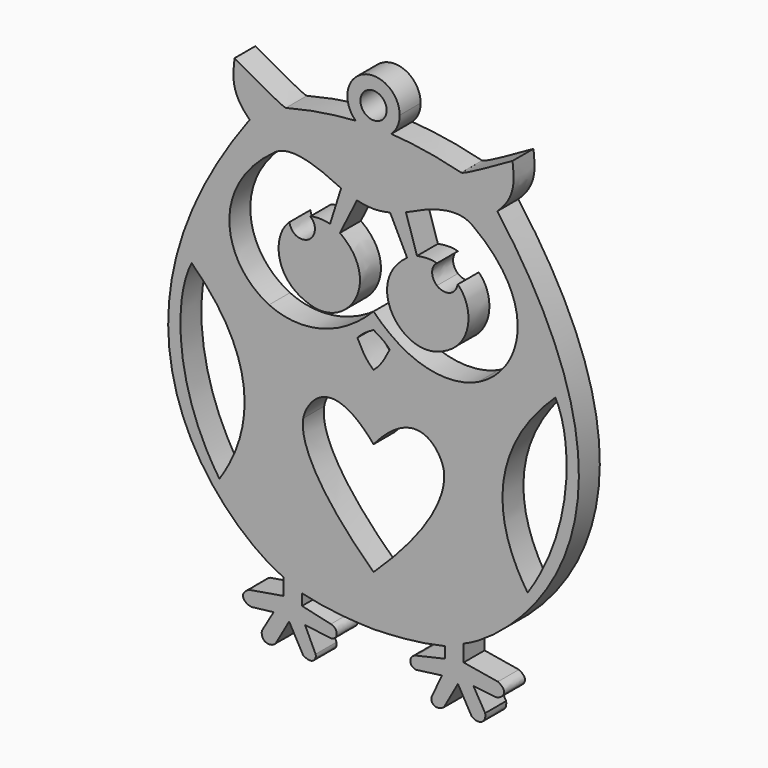
from build123d import *

# Parameters (mm, degrees)
F0_R     = 1
F1_DEPTH = 2
F3_DEPTH = 2.0010001


with BuildPart() as f1:
    # F0 (on Front) → F1 (new body)
    with BuildSketch(Plane.XZ):
        with BuildLine():
            add(Edge.make_bspline(
                [(-6.694146432, 17.4146443605), (-4.5621754504, 17.9637104551), (-2.7419406128, 18.1961868046), (-1.3568397765, 18.2818330516)],
                knots=[0, 0, 0, 0, 4.9262608681, 4.9262608681, 4.9262608681, 4.9262608681], degree=3))
            add(Edge.make_bspline(
                [(-6.694146432, 17.4146443605), (-7.009298075, 17.4173600972), (-9.1792950407, 18.663495779), (-10.6187984347, 19.4799304008)],
                knots=[0, 0, 0, 0, 4.4348956889, 4.4348956889, 4.4348956889, 4.4348956889], degree=3))
            add(Edge.make_bspline(
                [(-10.6187984347, 19.4799304008), (-10.769193992, 18.2767640799), (-10.8981039375, 17.0521121472), (-9.4586014748, 15.7200358808)],
                knots=[0, 0, 0, 0, 3.934827034, 3.934827034, 3.934827034, 3.934827034], degree=3))
            add(Edge.make_bspline(
                [(-9.4586014748, 15.7200358808), (-23.4882086515, -3.219832899), (-9.844372049, -13.0822313949), (-6.8845772184, -14.1899436712)],
                knots=[0, 0, 0, 0, 30.020534267, 30.020534267, 30.020534267, 30.020534267], degree=3))
            add(Edge.make_bspline(
                [(-6.8845772184, -14.1899436712), (-6.8845772184, -14.6153982108), (-6.8845772184, -15.0408527503), (-6.8845772184, -15.4663072899)],
                knots=[0, 0, 0, 0, 1.2763636187, 1.2763636187, 1.2763636187, 1.2763636187], degree=3))
            add(Edge.make_bspline(
                [(-6.8845772184, -15.4663072899), (-7.7569124599, -15.6131659945), (-8.6292477014, -15.7600246991), (-9.5015829429, -15.9068834037)],
                knots=[0, 0, 0, 0, 2.6538323749, 2.6538323749, 2.6538323749, 2.6538323749], degree=3))
            add(Edge.make_bspline(
                [(-9.5015829429, -15.9068834037), (-10.4890801013, -16.4082273841), (-9.6838902682, -17.0918796211), (-9.1825444251, -16.985533759)],
                knots=[0, 0, 0, 0, 1.1248431735, 1.1248431735, 1.1248431735, 1.1248431735], degree=3))
            add(Edge.make_bspline(
                [(-9.1825444251, -16.985533759), (-8.6660073139, -16.924764961), (-8.1494702026, -16.863996163), (-7.6329330914, -16.803227365)],
                knots=[0, 0, 0, 0, 1.5602983391, 1.5602983391, 1.5602983391, 1.5602983391], degree=3))
            add(Edge.make_bspline(
                [(-7.6329330914, -16.803227365), (-7.931714567, -17.3147004098), (-8.2304960427, -17.8261734545), (-8.5292775184, -18.3376464993)],
                knots=[0, 0, 0, 0, 1.7770411958, 1.7770411958, 1.7770411958, 1.7770411958], degree=3))
            add(Edge.make_bspline(
                [(-8.5292775184, -18.3376464993), (-8.6508151144, -19.1884133965), (-7.754471153, -19.2187987268), (-7.4658179656, -18.8389923424)],
                knots=[0, 0, 0, 0, 1.175709945, 1.175709945, 1.175709945, 1.175709945], degree=3))
            add(Edge.make_bspline(
                [(-7.4658179656, -18.8389923424), (-7.1265239579, -18.2414290806), (-6.7872299502, -17.6438658188), (-6.4479359426, -17.046302557)],
                knots=[0, 0, 0, 0, 2.0615092722, 2.0615092722, 2.0615092722, 2.0615092722], degree=3))
            add(Edge.make_bspline(
                [(-6.4479359426, -17.046302557), (-6.0883855137, -17.6894422621), (-5.7288350848, -18.3325819671), (-5.3692846559, -18.9757216722)],
                knots=[0, 0, 0, 0, 2.2104630104, 2.2104630104, 2.2104630104, 2.2104630104], degree=3))
            add(Edge.make_bspline(
                [(-5.3692846559, -18.9757216722), (-4.6856324188, -19.4011051208), (-4.3210177682, -18.9453382045), (-4.4273636304, -18.5807235539)],
                knots=[0, 0, 0, 0, 1.0213905873, 1.0213905873, 1.0213905873, 1.0213905873], degree=3))
            add(Edge.make_bspline(
                [(-4.4273636304, -18.5807235539), (-4.6957603966, -18.0135450015), (-4.9641571629, -17.4463664492), (-5.2325539291, -16.8791878968)],
                knots=[0, 0, 0, 0, 1.8824332682, 1.8824332682, 1.8824332682, 1.8824332682], degree=3))
            add(Edge.make_bspline(
                [(-5.2325539291, -16.8791878968), (-4.5742221798, -16.965277493), (-3.9158904304, -17.0513670892), (-3.2575586811, -17.1374566853)],
                knots=[0, 0, 0, 0, 1.9918104821, 1.9918104821, 1.9918104821, 1.9918104821], degree=3))
            add(Edge.make_bspline(
                [(-3.2575586811, -17.1374566853), (-2.604290843, -17.046302557), (-2.7258291375, -16.2866897881), (-3.2575586811, -16.180343926)],
                knots=[0, 0, 0, 0, 0.9571127594, 0.9571127594, 0.9571127594, 0.9571127594], degree=3))
            add(Edge.make_bspline(
                [(-3.2575586811, -16.180343926), (-3.9918518936, -16.0132286449), (-4.7261451061, -15.8461133639), (-5.4604383186, -15.6789980829)],
                knots=[0, 0, 0, 0, 2.2592092315, 2.2592092315, 2.2592092315, 2.2592092315], degree=3))
            add(Edge.make_bspline(
                [(-5.4604383186, -15.6789980829), (-5.4604383186, -15.3954091171), (-5.4604383186, -15.1118201514), (-5.4604383186, -14.8282311857)],
                knots=[0, 0, 0, 0, 0.8507668972, 0.8507668972, 0.8507668972, 0.8507668972], degree=3))
            add(Edge.make_bspline(
                [(-5.4604383186, -14.8282311857), (-3.6525577307, -15.2688072994), (-1.7465405399, -15.4277021065), (0, -15.4663072899)],
                knots=[0, 0, 0, 0, 5.4975929047, 5.4975929047, 5.4975929047, 5.4975929047], degree=3))
            add(Edge.make_bspline(
                [(5.4604383186, -14.8282311857), (3.6525577307, -15.2688072994), (1.7465405399, -15.4277021065), (0, -15.4663072899)],
                knots=[0, 0, 0, 0, 5.4975929047, 5.4975929047, 5.4975929047, 5.4975929047], degree=3))
            add(Edge.make_bspline(
                [(5.4604383186, -15.6789980829), (5.4604383186, -15.3954091171), (5.4604383186, -15.1118201514), (5.4604383186, -14.8282311857)],
                knots=[0, 0, 0, 0, 0.8507668972, 0.8507668972, 0.8507668972, 0.8507668972], degree=3))
            add(Edge.make_bspline(
                [(3.2575586811, -16.180343926), (3.9918518936, -16.0132286449), (4.7261451061, -15.8461133639), (5.4604383186, -15.6789980829)],
                knots=[0, 0, 0, 0, 2.2592092315, 2.2592092315, 2.2592092315, 2.2592092315], degree=3))
            add(Edge.make_bspline(
                [(3.2575586811, -17.1374566853), (2.604290843, -17.046302557), (2.7258291375, -16.2866897881), (3.2575586811, -16.180343926)],
                knots=[0, 0, 0, 0, 0.9571127594, 0.9571127594, 0.9571127594, 0.9571127594], degree=3))
            add(Edge.make_bspline(
                [(5.2325539291, -16.8791878968), (4.5742221798, -16.965277493), (3.9158904304, -17.0513670892), (3.2575586811, -17.1374566853)],
                knots=[0, 0, 0, 0, 1.9918104821, 1.9918104821, 1.9918104821, 1.9918104821], degree=3))
            add(Edge.make_bspline(
                [(4.4273636304, -18.5807235539), (4.6957603966, -18.0135450015), (4.9641571629, -17.4463664492), (5.2325539291, -16.8791878968)],
                knots=[0, 0, 0, 0, 1.8824332682, 1.8824332682, 1.8824332682, 1.8824332682], degree=3))
            add(Edge.make_bspline(
                [(5.3692846559, -18.9757216722), (4.6856324188, -19.4011051208), (4.3210177682, -18.9453382045), (4.4273636304, -18.5807235539)],
                knots=[0, 0, 0, 0, 1.0213905873, 1.0213905873, 1.0213905873, 1.0213905873], degree=3))
            add(Edge.make_bspline(
                [(6.4479359426, -17.046302557), (6.0883855137, -17.6894422621), (5.7288350848, -18.3325819671), (5.3692846559, -18.9757216722)],
                knots=[0, 0, 0, 0, 2.2104630104, 2.2104630104, 2.2104630104, 2.2104630104], degree=3))
            add(Edge.make_bspline(
                [(7.4658179656, -18.8389923424), (7.1265239579, -18.2414290806), (6.7872299502, -17.6438658188), (6.4479359426, -17.046302557)],
                knots=[0, 0, 0, 0, 2.0615092722, 2.0615092722, 2.0615092722, 2.0615092722], degree=3))
            add(Edge.make_bspline(
                [(8.5292775184, -18.3376464993), (8.6508151144, -19.1884133965), (7.754471153, -19.2187987268), (7.4658179656, -18.8389923424)],
                knots=[0, 0, 0, 0, 1.175709945, 1.175709945, 1.175709945, 1.175709945], degree=3))
            add(Edge.make_bspline(
                [(7.6329330914, -16.803227365), (7.931714567, -17.3147004098), (8.2304960427, -17.8261734545), (8.5292775184, -18.3376464993)],
                knots=[0, 0, 0, 0, 1.7770411958, 1.7770411958, 1.7770411958, 1.7770411958], degree=3))
            add(Edge.make_bspline(
                [(9.1825444251, -16.985533759), (8.6660073139, -16.924764961), (8.1494702026, -16.863996163), (7.6329330914, -16.803227365)],
                knots=[0, 0, 0, 0, 1.5602983391, 1.5602983391, 1.5602983391, 1.5602983391], degree=3))
            add(Edge.make_bspline(
                [(9.5015829429, -15.9068834037), (10.4890801013, -16.4082273841), (9.6838902682, -17.0918796211), (9.1825444251, -16.985533759)],
                knots=[0, 0, 0, 0, 1.1248431735, 1.1248431735, 1.1248431735, 1.1248431735], degree=3))
            add(Edge.make_bspline(
                [(6.8845772184, -15.4663072899), (7.7569124599, -15.6131659945), (8.6292477014, -15.7600246991), (9.5015829429, -15.9068834037)],
                knots=[0, 0, 0, 0, 2.6538323749, 2.6538323749, 2.6538323749, 2.6538323749], degree=3))
            add(Edge.make_bspline(
                [(6.8845772184, -14.1899436712), (6.8845772184, -14.6153982108), (6.8845772184, -15.0408527503), (6.8845772184, -15.4663072899)],
                knots=[0, 0, 0, 0, 1.2763636187, 1.2763636187, 1.2763636187, 1.2763636187], degree=3))
            add(Edge.make_bspline(
                [(9.4586014748, 15.7200358808), (23.4882086515, -3.219832899), (9.844372049, -13.0822313949), (6.8845772184, -14.1899436712)],
                knots=[0, 0, 0, 0, 30.020534267, 30.020534267, 30.020534267, 30.020534267], degree=3))
            add(Edge.make_bspline(
                [(10.6187984347, 19.4799304008), (10.769193992, 18.2767640799), (10.8981039375, 17.0521121472), (9.4586014748, 15.7200358808)],
                knots=[0, 0, 0, 0, 3.934827034, 3.934827034, 3.934827034, 3.934827034], degree=3))
            add(Edge.make_bspline(
                [(6.694146432, 17.4146443605), (7.009298075, 17.4173600972), (9.1792950407, 18.663495779), (10.6187984347, 19.4799304008)],
                knots=[0, 0, 0, 0, 4.4348956889, 4.4348956889, 4.4348956889, 4.4348956889], degree=3))
            add(Edge.make_bspline(
                [(6.694146432, 17.4146443605), (4.5621754504, 17.9637104551), (2.7419406128, 18.1961868046), (1.3568397765, 18.2818330516)],
                knots=[0, 0, 0, 0, 4.9262608681, 4.9262608681, 4.9262608681, 4.9262608681], degree=3))
            ThreePointArc((1.3568397765, 18.2818330516), (0, 17.751181826), (-1.3568397765, 18.2818330516))
        make_face()
        with BuildLine():
            add(Edge.make_bspline(
                [(-13.892584066, 4.6396254339), (-15.2431493625, 2.085626591), (-15.3198000044, -3.9697838947), (-11.7719132035, -9.1830628215)],
                knots=[0, 0, 0, 0, 13.9844183116, 13.9844183116, 13.9844183116, 13.9844183116], degree=3))
            add(Edge.make_bspline(
                [(-13.892584066, 4.6396254339), (-9.2388391495, 0.2460085379), (-8.7022837251, -4.6085403301), (-11.7719132035, -9.1830628215)],
                knots=[0, 0, 0, 0, 13.9844183116, 13.9844183116, 13.9844183116, 13.9844183116], degree=3))
        make_face(mode=Mode.SUBTRACT)
        with BuildLine():
            add(Edge.make_bspline(
                [(13.892584066, 4.6396254339), (9.2388391495, 0.2460085379), (8.7022837251, -4.6085403301), (11.7719132035, -9.1830628215)],
                knots=[0, 0, 0, 0, 13.9844183116, 13.9844183116, 13.9844183116, 13.9844183116], degree=3))
            add(Edge.make_bspline(
                [(13.892584066, 4.6396254339), (15.2431493625, 2.085626591), (15.3198000044, -3.9697838947), (11.7719132035, -9.1830628215)],
                knots=[0, 0, 0, 0, 13.9844183116, 13.9844183116, 13.9844183116, 13.9844183116], degree=3))
        make_face(mode=Mode.SUBTRACT)
        with BuildLine():
            add(Edge.make_bspline(
                [(0, 4.6552196145), (-0.4382223124, 4.4188834727), (-0.8894097991, 4.1395765729), (-1.2331716716, 3.7313594949)],
                knots=[0, 0, 0, 0, 1.5408536246, 1.5408536246, 1.5408536246, 1.5408536246], degree=3))
            add(Edge.make_bspline(
                [(0, 4.6552196145), (0.4382223124, 4.4188834727), (0.8894097991, 4.1395765729), (1.2331716716, 3.7313594949)],
                knots=[0, 0, 0, 0, 1.5408536246, 1.5408536246, 1.5408536246, 1.5408536246], degree=3))
            add(Edge.make_bspline(
                [(1.2331716716, 3.7313594949), (0.9108948871, 3.0868060421), (0.6101032486, 2.4852228817), (0, 1.9695796072)],
                knots=[0, 0, 0, 0, 2.1504838395, 2.1504838395, 2.1504838395, 2.1504838395], degree=3))
            add(Edge.make_bspline(
                [(-1.2331716716, 3.7313594949), (-0.9108948871, 3.0868060421), (-0.6101032486, 2.4852228817), (0, 1.9695796072)],
                knots=[0, 0, 0, 0, 2.1504838395, 2.1504838395, 2.1504838395, 2.1504838395], degree=3))
        make_face(mode=Mode.SUBTRACT)
        with BuildLine():
            add(Edge.make_bspline(
                [(0, 12.7942087129), (-0.5026775762, 12.8088220954), (-0.8571820799, 12.8625342622), (-1.2653992744, 12.9660908133)],
                knots=[0, 0, 0, 0, 1.2770194909, 1.2770194909, 1.2770194909, 1.2770194909], degree=3))
            add(Edge.make_bspline(
                [(0, 12.7942087129), (0.5026775762, 12.8088220954), (0.8571820799, 12.8625342622), (1.2653992744, 12.9660908133)],
                knots=[0, 0, 0, 0, 1.2770194909, 1.2770194909, 1.2770194909, 1.2770194909], degree=3))
            add(Edge.make_bspline(
                [(1.2653992744, 12.9660908133), (1.6986824727, 12.0936523502), (2.131965671, 11.2212138871), (2.5652488694, 10.3487754241)],
                knots=[0, 0, 0, 0, 2.9223190818, 2.9223190818, 2.9223190818, 2.9223190818], degree=3))
            add(Edge.make_bspline(
                [(2.5652488694, 10.3487754241), (-0.7529730792, 7.9452535138), (1.9434089772, 3.8953090552), (4.7997012734, 4.7626453452)],
                knots=[0, 0, 0, 0, 6.0164463601, 6.0164463601, 6.0164463601, 6.0164463601], degree=3))
            add(Edge.make_bspline(
                [(4.7997012734, 4.7626453452), (7.7124430202, 5.647122968), (7.7121634968, 8.6542628706), (6.4325700514, 9.8116481677)],
                knots=[0, 0, 0, 0, 5.306476227, 5.306476227, 5.306476227, 5.306476227], degree=3))
            add(Edge.make_bspline(
                [(6.4325700514, 9.8116481677), (6.1747487634, 8.758877404), (5.2029229701, 8.8965212926), (4.8426715657, 9.2100650072)],
                knots=[0, 0, 0, 0, 1.6999057308, 1.6999057308, 1.6999057308, 1.6999057308], degree=3))
            add(Edge.make_bspline(
                [(4.8426715657, 9.2100650072), (4.3039970807, 9.6788987076), (4.4129691087, 10.4562016204), (4.8426715657, 10.7140224427)],
                knots=[0, 0, 0, 0, 1.5039574355, 1.5039574355, 1.5039574355, 1.5039574355], degree=3))
            add(Edge.make_bspline(
                [(4.8426715657, 10.7140224427), (4.4559394009, 10.8429333195), (3.9832666516, 10.8429333195), (3.3172282856, 10.7140224427)],
                knots=[0, 0, 0, 0, 1.5254432801, 1.5254432801, 1.5254432801, 1.5254432801], degree=3))
            add(Edge.make_bspline(
                [(3.3172282856, 10.7140224427), (3.0379216963, 11.6020742183), (2.758615107, 12.4901259939), (2.4793085176, 13.3781777695)],
                knots=[0, 0, 0, 0, 2.7928181364, 2.7928181364, 2.7928181364, 2.7928181364], degree=3))
            add(Edge.make_bspline(
                [(2.4793085176, 13.3781777695), (4.5418799855, 14.3879782408), (6.4007012288, 14.9836288907), (7.5497962534, 14.151642099)],
                knots=[0, 0, 0, 0, 5.129141541, 5.129141541, 5.129141541, 5.129141541], degree=3))
            add(Edge.make_bspline(
                [(7.5497962534, 14.151642099), (12.7357830261, 10.3967981529), (11.4330640679, 5.4187298649), (7.9794991761, 3.7528444082)],
                knots=[0, 0, 0, 0, 10.4076720748, 10.4076720748, 10.4076720748, 10.4076720748], degree=3))
            add(Edge.make_bspline(
                [(7.9794991761, 3.7528444082), (6.3870281741, 2.9846890771), (3.2098027878, 2.6571035851), (0, 5.9013562277)],
                knots=[0, 0, 0, 0, 8.263686232, 8.263686232, 8.263686232, 8.263686232], degree=3))
            add(Edge.make_bspline(
                [(-7.9794991761, 3.7528444082), (-6.3870281741, 2.9846890771), (-3.2098027878, 2.6571035851), (0, 5.9013562277)],
                knots=[0, 0, 0, 0, 8.263686232, 8.263686232, 8.263686232, 8.263686232], degree=3))
            add(Edge.make_bspline(
                [(-7.5497962534, 14.151642099), (-12.7357830261, 10.3967981529), (-11.4330640679, 5.4187298649), (-7.9794991761, 3.7528444082)],
                knots=[0, 0, 0, 0, 10.4076720748, 10.4076720748, 10.4076720748, 10.4076720748], degree=3))
            add(Edge.make_bspline(
                [(-2.4793085176, 13.3781777695), (-4.5418799855, 14.3879782408), (-6.4007012288, 14.9836288907), (-7.5497962534, 14.151642099)],
                knots=[0, 0, 0, 0, 5.129141541, 5.129141541, 5.129141541, 5.129141541], degree=3))
            add(Edge.make_bspline(
                [(-3.3172282856, 10.7140224427), (-3.0379216963, 11.6020742183), (-2.758615107, 12.4901259939), (-2.4793085176, 13.3781777695)],
                knots=[0, 0, 0, 0, 2.7928181364, 2.7928181364, 2.7928181364, 2.7928181364], degree=3))
            add(Edge.make_bspline(
                [(-4.8426715657, 10.7140224427), (-4.4559394009, 10.8429333195), (-3.9832666516, 10.8429333195), (-3.3172282856, 10.7140224427)],
                knots=[0, 0, 0, 0, 1.5254432801, 1.5254432801, 1.5254432801, 1.5254432801], degree=3))
            add(Edge.make_bspline(
                [(-4.8426715657, 9.2100650072), (-4.3039970807, 9.6788987076), (-4.4129691087, 10.4562016204), (-4.8426715657, 10.7140224427)],
                knots=[0, 0, 0, 0, 1.5039574355, 1.5039574355, 1.5039574355, 1.5039574355], degree=3))
            add(Edge.make_bspline(
                [(-6.4325700514, 9.8116481677), (-6.1747487634, 8.758877404), (-5.2029229701, 8.8965212926), (-4.8426715657, 9.2100650072)],
                knots=[0, 0, 0, 0, 1.6999057308, 1.6999057308, 1.6999057308, 1.6999057308], degree=3))
            add(Edge.make_bspline(
                [(-4.7997012734, 4.7626453452), (-7.7124430202, 5.647122968), (-7.7121634968, 8.6542628706), (-6.4325700514, 9.8116481677)],
                knots=[0, 0, 0, 0, 5.306476227, 5.306476227, 5.306476227, 5.306476227], degree=3))
            add(Edge.make_bspline(
                [(-2.5652488694, 10.3487754241), (0.7529730792, 7.9452535138), (-1.9434089772, 3.8953090552), (-4.7997012734, 4.7626453452)],
                knots=[0, 0, 0, 0, 6.0164463601, 6.0164463601, 6.0164463601, 6.0164463601], degree=3))
            add(Edge.make_bspline(
                [(-1.2653992744, 12.9660908133), (-1.6986824727, 12.0936523502), (-2.131965671, 11.2212138871), (-2.5652488694, 10.3487754241)],
                knots=[0, 0, 0, 0, 2.9223190818, 2.9223190818, 2.9223190818, 2.9223190818], degree=3))
        make_face(mode=Mode.SUBTRACT)
        with BuildLine():
            ThreePointArc((2, 19.751181826), (-0.8019727074, 21.5833498796), (-1.3568397765, 18.2818330516))
            add(Edge.make_bspline(
                [(-1.3568397765, 18.2818330516), (-0.8424369193, 18.3136406089), (-0.3880500531, 18.3251965791), (0, 18.3251965791)],
                knots=[4.9262608681, 4.9262608681, 4.9262608681, 4.9262608681, 6.7557902421, 6.7557902421, 6.7557902421, 6.7557902421], degree=3))
            add(Edge.make_bspline(
                [(1.3568397765, 18.2818330516), (0.8424369193, 18.3136406089), (0.3880500531, 18.3251965791), (0, 18.3251965791)],
                knots=[4.9262608681, 4.9262608681, 4.9262608681, 4.9262608681, 6.7557902421, 6.7557902421, 6.7557902421, 6.7557902421], degree=3))
            ThreePointArc((1.3568397765, 18.2818330516), (1.8321680536, 18.9492091186), (2, 19.751181826))
        make_face()
        with Locations((0, 19.751181826)):
            Circle(F0_R, mode=Mode.SUBTRACT)
        with BuildLine():
            add(Edge.make_bspline(
                [(-1.3568397765, 18.2818330516), (-0.8424369193, 18.3136406089), (-0.3880500531, 18.3251965791), (0, 18.3251965791)],
                knots=[4.9262608681, 4.9262608681, 4.9262608681, 4.9262608681, 6.7557902421, 6.7557902421, 6.7557902421, 6.7557902421], degree=3))
            ThreePointArc((-1.3568397765, 18.2818330516), (0, 17.751181826), (1.3568397765, 18.2818330516))
            add(Edge.make_bspline(
                [(1.3568397765, 18.2818330516), (0.8424369193, 18.3136406089), (0.3880500531, 18.3251965791), (0, 18.3251965791)],
                knots=[4.9262608681, 4.9262608681, 4.9262608681, 4.9262608681, 6.7557902421, 6.7557902421, 6.7557902421, 6.7557902421], degree=3))
        make_face()
    extrude(amount=F1_DEPTH)

    # F2 (on face) → F3 (cut, through all)
    with BuildSketch(Plane.XZ.offset(2)):
        with BuildLine():
            add(Edge.make_bspline(
                [(0, -11.6299400106), (-4.5002317056, -7.3615472042), (-5.6213182759, -4.5534519736), (-5.3674364462, -3.0301623046)],
                knots=[0, 0, 0, 0, 10.1373344917, 10.1373344917, 10.1373344917, 10.1373344917], degree=3))
            add(Edge.make_bspline(
                [(0, -11.6299400106), (4.5002317056, -7.3615472042), (5.6213182759, -4.5534519736), (5.3674364462, -3.0301623046)],
                knots=[0, 0, 0, 0, 10.1373344917, 10.1373344917, 10.1373344917, 10.1373344917], degree=3))
            add(Edge.make_bspline(
                [(5.3674364462, -3.0301623046), (5.1867687143, -1.9461568445), (3.4162262455, 0.9806581074), (0, -3.0301623046)],
                knots=[0, 0, 0, 0, 5.3674364462, 5.3674364462, 5.3674364462, 5.3674364462], degree=3))
            add(Edge.make_bspline(
                [(-5.3674364462, -3.0301623046), (-5.1867687143, -1.9461568445), (-3.4162262455, 0.9806581074), (0, -3.0301623046)],
                knots=[0, 0, 0, 0, 5.3674364462, 5.3674364462, 5.3674364462, 5.3674364462], degree=3))
        make_face()
    extrude(amount=-F3_DEPTH, mode=Mode.SUBTRACT)


solid = f1.part
